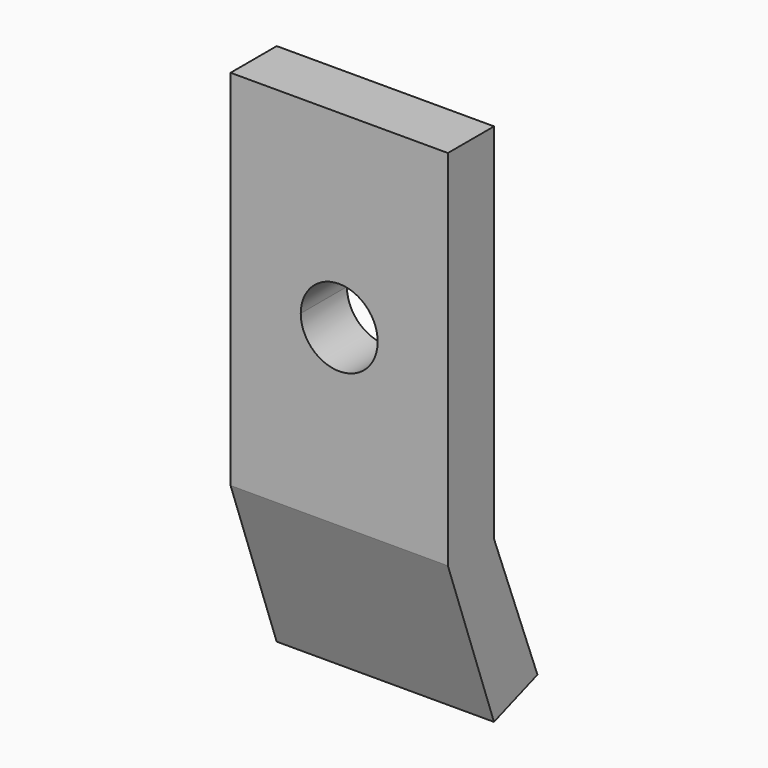
from build123d import *

# Parameters (mm, degrees)
F0_W     = 5.1
F0_H     = 32.1
F1_DEPTH = 19.2
F3_DEPTH = 5.101


with BuildPart() as f1:
    # F0 (on Right) → F1 (new body)
    with BuildSketch(Plane.YZ):
        Rectangle(F0_W, F0_H)
        Polygon((2.55, -16.05), (-2.55, -16.05), (2.540138, -30.266205), (7.341638, -28.547019), align=None)
    extrude(amount=F1_DEPTH)

    # F2 (on face) → F3 (cut, through all)
    with BuildSketch(Plane(origin=(0, 2.55, 0), x_dir=(-1, 0, 0), z_dir=(0, 1, 0))):
        with BuildLine():
            ThreePointArc((-9.6, 2.75), (-12.004163, -3.054163), (-6.2, -0.65))
            ThreePointArc((-6.2, -0.65), (-7.195837, 1.754163), (-9.6, 2.75))
        make_face()
    extrude(amount=-F3_DEPTH, mode=Mode.SUBTRACT)


solid = f1.part
